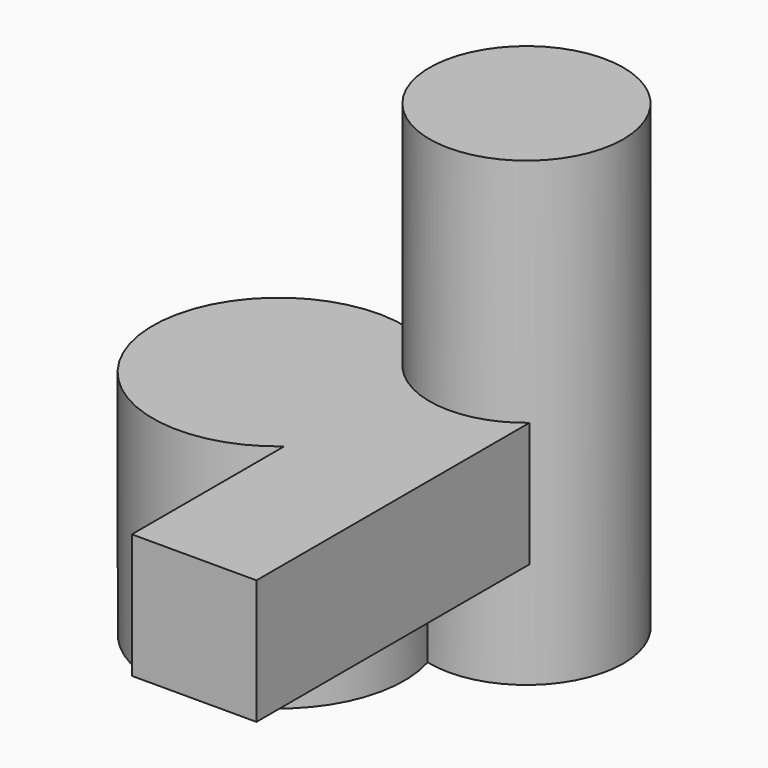
from build123d import *

# Parameters (mm, degrees)
F1_R     = 4.2
F2_R     = 5.45
F7_W     = 5.4
F7_H     = 19.2
F8_DEPTH = 5.4


with BuildPart() as f5:
    # F5: sweep along a path in F4
    with BuildLine(Plane(origin=(0, 0, 0), x_dir=(0.744048, 0.668127, 0), z_dir=(0.668127, -0.744048, 0))) as f5_path:
        Line((0, 0), (0, 20))
    # F1 (on Top) → F5 (sweep)
    with BuildSketch(Plane.XY):
        Circle(F1_R)
    sweep(path=f5_path.line)

    # F6: sweep along a path in F4
    with BuildLine(Plane(origin=(0, 0, 0), x_dir=(0.744048, 0.668127, 0), z_dir=(0.668127, -0.744048, 0))) as f6_path:
        Line((-8.4, 0), (-8.4, 10))
    # F2 (on Top) → F6 (sweep)
    with BuildSketch(Plane.XY):
        with Locations((-6.25, -5.612263)):
            Circle(F2_R)
    sweep(path=f6_path.line)

    # F7 (on face) → F8 (join)
    with BuildSketch(Plane.XY.offset(10)):
        with Locations((0, -8.4)):
            Rectangle(F7_W, F7_H)
    extrude(amount=-F8_DEPTH)


solid = f5.part
